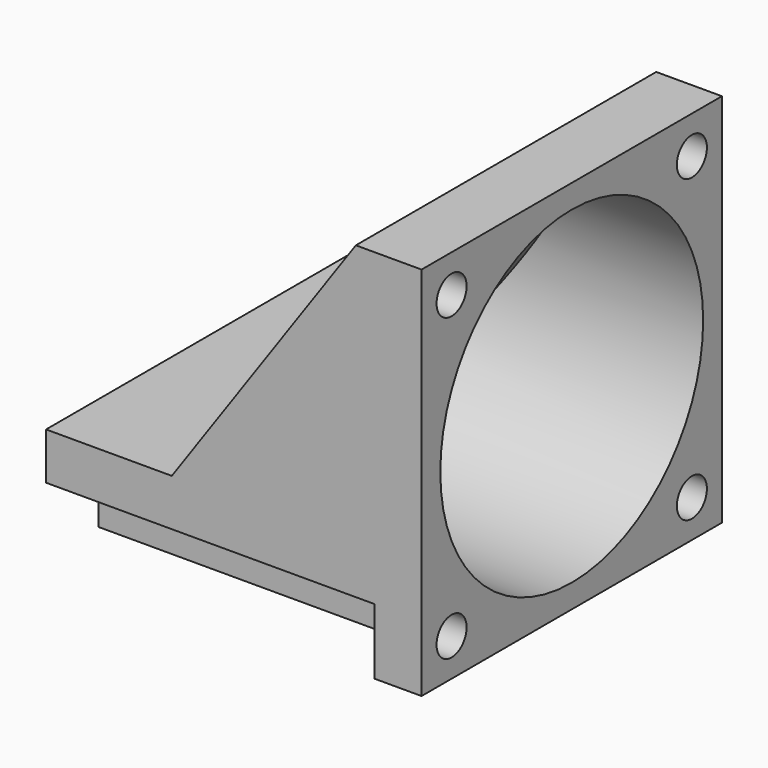
from build123d import *

# Parameters (mm, degrees)
PAD_DEPTH       = 20
SKETCH001_R     = 17.5
POCKET_DEPTH    = 40.001
PAD001_DEPTH    = 20
SKETCH003_R     = 3
POCKET001_DEPTH = 35
SKETCH004_R     = 2
POCKET002_DEPTH = 40.001


with BuildPart() as part:
    # Sketch → Pad (new body, symmetric)
    with BuildSketch(Plane.XZ):
        Polygon((-40, 0), (0, 0), (0, 40), (-5, 40), (-26.006226, 10), (-40, 10), align=None)
    extrude(amount=PAD_DEPTH, both=True)

    # Sketch001 → Pocket (cut, through all)
    with BuildSketch(Plane.YZ):
        with Locations((0, 20)):
            Circle(SKETCH001_R)
    extrude(amount=-POCKET_DEPTH, mode=Mode.SUBTRACT)

    # Sketch002 → Pad001 (join, symmetric)
    with BuildSketch(Plane.XZ):
        Polygon((-5, 40), (-7, 40), (-26.605811, 12), (-40, 12), (-40, 10), (-26.006226, 10), align=None)
    extrude(amount=PAD001_DEPTH, both=True)

    # Sketch003 (on Face6 of Pad001) → Pocket001 (cut)
    with BuildSketch(Plane(origin=(-40, 0, 0), x_dir=(0, 0, -1), z_dir=(-1, 0, 0))):
        with Locations((-36, 16)):
            Circle(SKETCH003_R)
        with BuildLine():
            Line((-4, 13), (4.613364, 13))
            Line((4.613364, 13), (4.613364, 24.650373))
            Line((4.613364, 24.650373), (-7, 24.650373))
            Line((-7, 24.650373), (-7, 16))
            ThreePointArc((-7, 16), (-6.12132, 13.87868), (-4, 13))
        make_face()
    pocket001 = extrude(amount=-POCKET001_DEPTH, mode=Mode.SUBTRACT)

    # Mirrored: Pocket001 across XZ
    add(pocket001.mirror(Plane.XZ), mode=Mode.SUBTRACT)

    # Sketch004 → Pocket002 (cut, through all)
    with BuildSketch(Plane.YZ):
        with Locations((16, 36)):
            Circle(SKETCH004_R)
        with Locations((16, 4)):
            Circle(SKETCH004_R)
        with Locations((-16, 4)):
            Circle(SKETCH004_R)
        with Locations((-16, 36)):
            Circle(SKETCH004_R)
    extrude(amount=-POCKET002_DEPTH, mode=Mode.SUBTRACT)


solid = part.part
